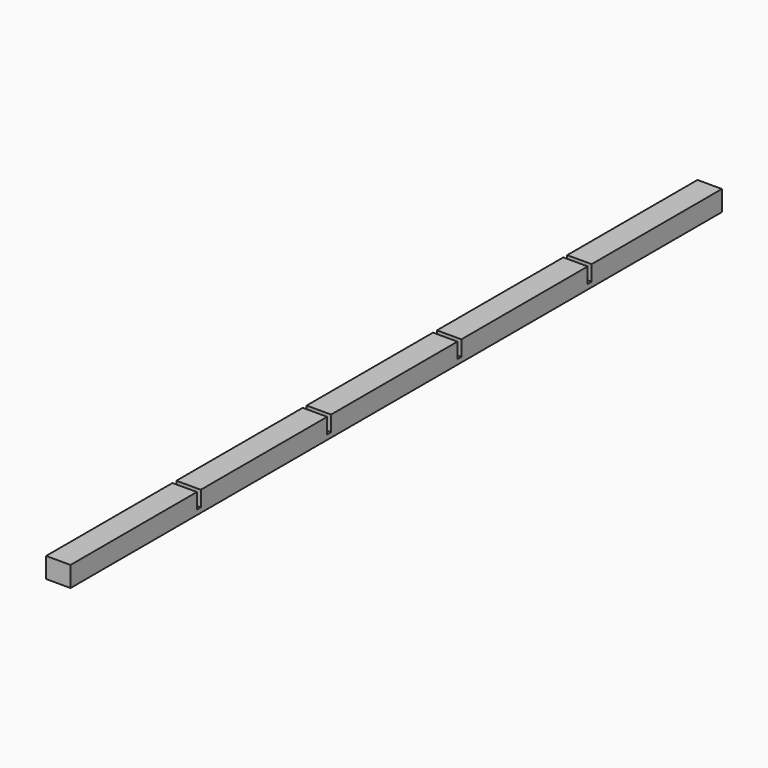
from build123d import *

# Parameters (mm, degrees)
F0_W     = 30
F0_H     = 1000
F1_DEPTH = 25
F2_W     = 6
F2_H     = 19
F3_DEPTH = 30.001
F4_DEPTH = 30.001
F5_W     = 200
F5_H     = 9.5
F5_W_2   = 194
F6_DEPTH = 4


with BuildPart() as f1:
    # F0 (on Top) → F1 (new body)
    with BuildSketch(Plane.XY):
        with Locations((-15, 500)):
            Rectangle(F0_W, F0_H)
    extrude(amount=F1_DEPTH)

    # F2 (on face) → F3 (cut, through all)
    with BuildSketch(Plane(origin=(-30, 0, 0), x_dir=(0, -1, 0), z_dir=(-1, 0, 0))):
        with Locations((-797, 15.5)):
            Rectangle(F2_W, F2_H)
    extrude(amount=-F3_DEPTH, mode=Mode.SUBTRACT)

    # F2 (on face) → F4 (cut, through all)
    with BuildSketch(Plane(origin=(-30, 0, 0), x_dir=(0, -1, 0), z_dir=(-1, 0, 0))):
        with Locations((-797, 15.5)):
            Rectangle(F2_W, F2_H)
        with Locations((-597, 15.5)):
            Rectangle(F2_W, F2_H)
        with Locations((-397, 15.5)):
            Rectangle(F2_W, F2_H)
        with Locations((-197, 15.5)):
            Rectangle(F2_W, F2_H)
    extrude(amount=-F4_DEPTH, mode=Mode.SUBTRACT)

    # F5 (on face) → F6 (cut)
    with BuildSketch(Plane(origin=(-30, 0, 0), x_dir=(0, -1, 0), z_dir=(-1, 0, 0))):
        with Locations((-900, 10.75)):
            Rectangle(F5_W, F5_H)
        with Locations((-697, 10.75)):
            Rectangle(F5_W_2, F5_H)
        with Locations((-297, 10.75)):
            Rectangle(F5_W_2, F5_H)
        with Locations((-497, 10.75)):
            Rectangle(F5_W_2, F5_H)
    extrude(amount=-F6_DEPTH, mode=Mode.SUBTRACT)


solid = f1.part
